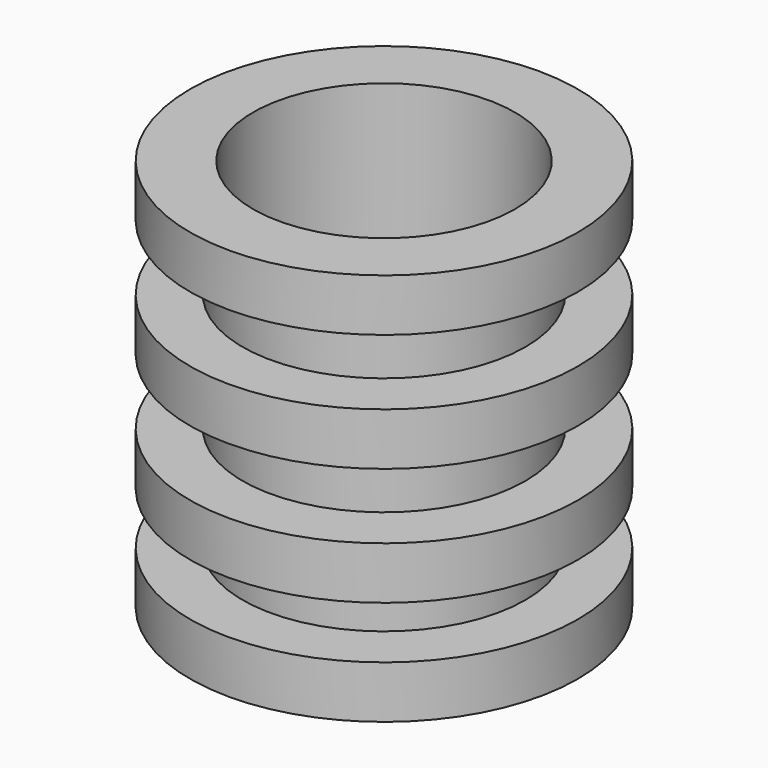
from build123d import *

# Parameters (mm, degrees)
F0_R      = 54
F0_R_2    = 50
F1_DEPTH  = 150
F2_R      = 74
F2_R_2    = 54
F3_DEPTH  = 20
F4_R      = 74
F4_R_2    = 54
F5_DEPTH  = 20
F7_R      = 74
F7_R_2    = 54
F8_DEPTH  = 20
F10_R     = 74
F10_R_2   = 54
F11_DEPTH = 20


with BuildPart() as f1:
    # F0 (on Top) → F1 (new body)
    with BuildSketch(Plane.XY):
        Circle(F0_R)
        Circle(F0_R_2, mode=Mode.SUBTRACT)
    extrude(amount=F1_DEPTH)

    # F2 (on Top) → F3 (join)
    with BuildSketch(Plane.XY):
        Circle(F2_R)
        Circle(F2_R_2, mode=Mode.SUBTRACT)
    extrude(amount=F3_DEPTH)

    # F4 (on face) → F5 (join)
    with BuildSketch(Plane.XY.offset(150)):
        Circle(F4_R)
        Circle(F4_R_2, mode=Mode.SUBTRACT)
    extrude(amount=-F5_DEPTH)

    # F7 (on offset) → F8 (join)
    with BuildSketch(Plane(origin=(0, 0, 105), x_dir=(1, 0, 0), z_dir=(0, 0, -1))):
        Circle(F7_R)
        Circle(F7_R_2, mode=Mode.SUBTRACT)
    extrude(amount=F8_DEPTH)

    # F10 (on offset) → F11 (join)
    with BuildSketch(Plane(origin=(0, 0, 60), x_dir=(1, 0, 0), z_dir=(0, 0, -1))):
        Circle(F10_R)
        Circle(F10_R_2, mode=Mode.SUBTRACT)
    extrude(amount=F11_DEPTH)


solid = f1.part
